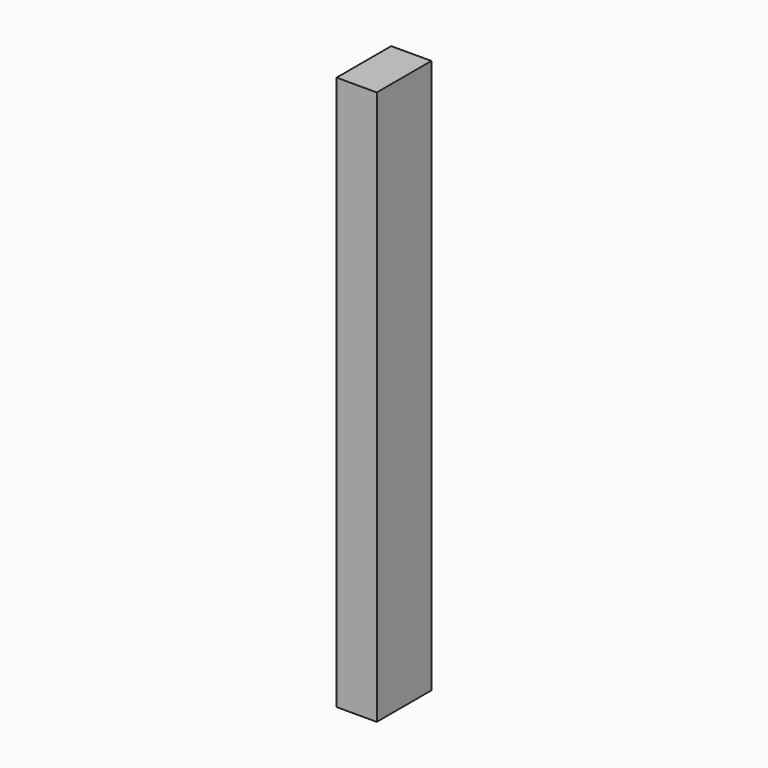
from build123d import *

# Parameters (mm, degrees)
F0_W     = 10
F0_H     = 138
F0_W_2   = 4.659399
F0_H_2   = 28.3
F0_W_3   = 4.6
F1_DEPTH = 17
F2_DEPTH = 9


with BuildPart() as f1:
    # F0 (on Front) → F1 (new body)
    with BuildSketch(Plane.XZ):
        with Locations((-25.254509, -12.323071)):
            Rectangle(F0_W, F0_H)
        with Locations((-25.291808, -60.673071)):
            Rectangle(F0_W_2, F0_H_2, mode=Mode.SUBTRACT)
        Polygon((-27.562109, -41.183438), (-27.562109, -14.323071), (-22.962109, -14.323071), (-22.962109, -42.623071), (-27.562109, -42.623071), align=None, mode=Mode.SUBTRACT)
        with Locations((-25.262109, 3.726929)):
            Rectangle(F0_W_3, F0_H_2, mode=Mode.SUBTRACT)
        with Locations((-25.262109, 35.926929)):
            Rectangle(F0_W_3, F0_H_2, mode=Mode.SUBTRACT)
        with Locations((-25.262109, 35.926929)):
            Rectangle(F0_W_3, F0_H_2)
        with Locations((-25.262109, 3.726929)):
            Rectangle(F0_W_3, F0_H_2)
        Polygon((-22.962109, -14.323071), (-27.562109, -14.323071), (-27.562109, -41.183438), (-27.562109, -42.623071), (-22.962109, -42.623071), align=None)
        with Locations((-25.291808, -60.673071)):
            Rectangle(F0_W_2, F0_H_2)
    extrude(amount=F1_DEPTH)

    # F0 (on Front) → F2 (cut)
    with BuildSketch(Plane.XZ):
        with Locations((-25.262109, 35.926929)):
            Rectangle(F0_W_3, F0_H_2)
        with Locations((-25.262109, 3.726929)):
            Rectangle(F0_W_3, F0_H_2)
        Polygon((-22.962109, -14.323071), (-27.562109, -14.323071), (-27.562109, -41.183438), (-27.562109, -42.623071), (-22.962109, -42.623071), align=None)
        with Locations((-25.291808, -60.673071)):
            Rectangle(F0_W_2, F0_H_2)
    extrude(amount=F2_DEPTH, mode=Mode.SUBTRACT)


solid = f1.part
